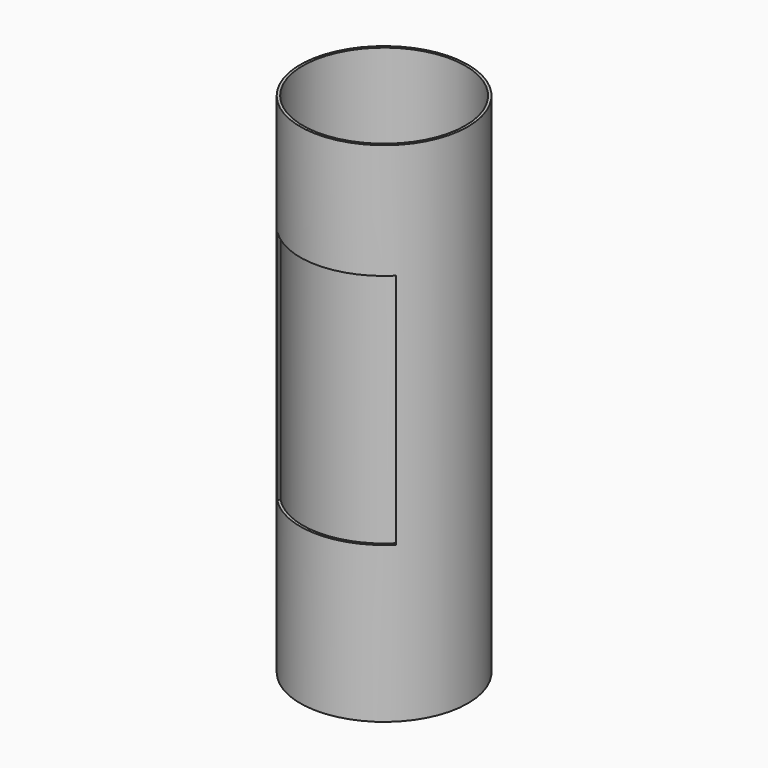
from build123d import *

# Parameters (mm, degrees)
F0_R     = 49.57
F0_R_2   = 48
F1_DEPTH = 300
F2_W     = 70
F2_H     = 140
F3_DEPTH = 100


with BuildPart() as f1:
    # F0 (on Top) → F1 (new body)
    with BuildSketch(Plane.XY):
        Circle(F0_R)
        Circle(F0_R_2, mode=Mode.SUBTRACT)
    extrude(amount=F1_DEPTH)

    # F2 (on Front) → F3 (cut)
    with BuildSketch(Plane.XZ):
        with Locations((0, 162)):
            Rectangle(F2_W, F2_H)
    extrude(amount=F3_DEPTH, mode=Mode.SUBTRACT)


solid = f1.part
